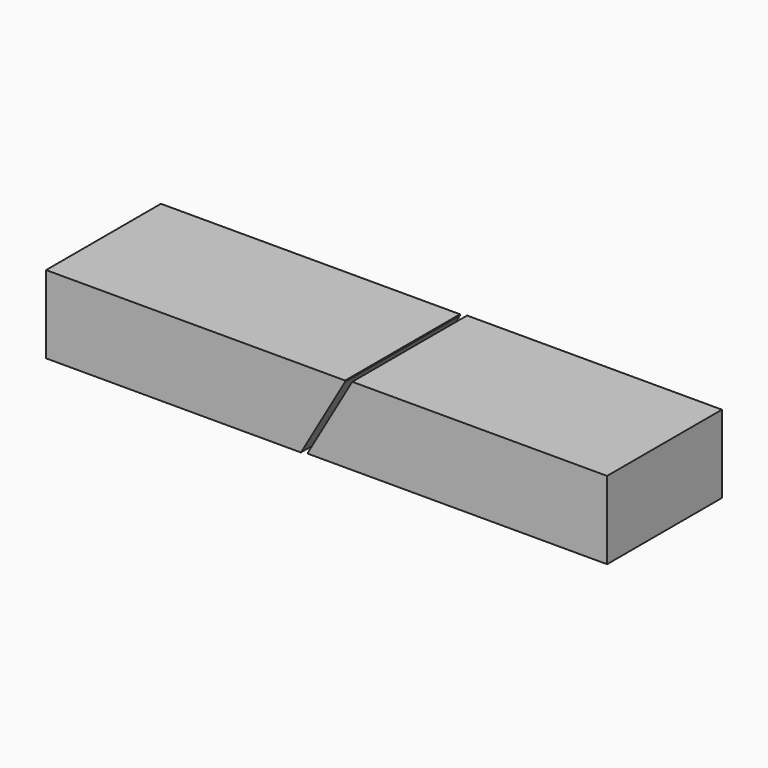
from build123d import *

# Parameters (mm, degrees)
BOX011_W               = 250
BOX011_H               = 120
BOX011_DEPTH           = 65
BOX011_PLACEMENT_ANGLE = 60
BOX010_W               = 250
BOX010_H               = 120
BOX010_DEPTH           = 65
BOX008_W               = 250
BOX008_H               = 120
BOX008_DEPTH           = 65
BOX008_PLACEMENT_ANGLE = 60
BOX009_W               = 250
BOX009_H               = 120
BOX009_DEPTH           = 65
CUT006_PLACEMENT_ANGLE = 180


with BuildPart() as box011:
    # Box011 → Box011 (new body)
    with BuildSketch(Plane.XY):
        with Locations((125, 60)):
            Rectangle(BOX011_W, BOX011_H)
    extrude(amount=BOX011_DEPTH)


with BuildPart() as box011_1:
    # Box011 placement: moved
    add(box011.part.moved(Location((187.927513, 0, 108.5))).rotate(Axis((187.927513, 0, 108.5), (0, 1, 0)), BOX011_PLACEMENT_ANGLE))


with BuildPart() as cut005:
    # Box010 → Box010 (new body)
    with BuildSketch(Plane.XY):
        with Locations((125, 60)):
            Rectangle(BOX010_W, BOX010_H)
    extrude(amount=BOX010_DEPTH)

    # Cut005: cut Box011
    add(box011_1.part, mode=Mode.SUBTRACT)


with BuildPart() as box008:
    # Box008 → Box008 (new body)
    with BuildSketch(Plane.XY):
        with Locations((125, 60)):
            Rectangle(BOX008_W, BOX008_H)
    extrude(amount=BOX008_DEPTH)


with BuildPart() as box008_1:
    # Box008 placement: moved
    add(box008.part.moved(Location((187.927513, 0, 108.5))).rotate(Axis((187.927513, 0, 108.5), (0, 1, 0)), BOX008_PLACEMENT_ANGLE))


with BuildPart() as compound002:
    # Box009 → Box009 (new body)
    with BuildSketch(Plane.XY):
        with Locations((125, 60)):
            Rectangle(BOX009_W, BOX009_H)
    extrude(amount=BOX009_DEPTH)

    # Cut006: cut Box008
    add(box008_1.part, mode=Mode.SUBTRACT)


with BuildPart() as compound002_1:
    # Cut006 placement: moved
    add(compound002.part.moved(Location((469, 0, 64))).rotate(Axis((469, 0, 64), (0, 1, 0)), CUT006_PLACEMENT_ANGLE))

    # Compound002: union Cut005
    add(cut005.part)


with BuildPart() as compound002_2:
    # Compound002 placement: moved
    add(compound002_1.part.moved(Location((0, 246, 0))))


with BuildPart() as part_mirroring001:
    # Part__Mirroring001: instance of Compound002
    add(compound002_2.part.mirror(Plane(origin=(0, 0, 0), x_dir=(0, 1, 0), z_dir=(0, 0, 1))))


with BuildPart() as part_mirroring001_1:
    # Part__Mirroring001 placement: moved
    add(part_mirroring001.part.moved(Location((0, 0, 66))))


solid = part_mirroring001_1.part
